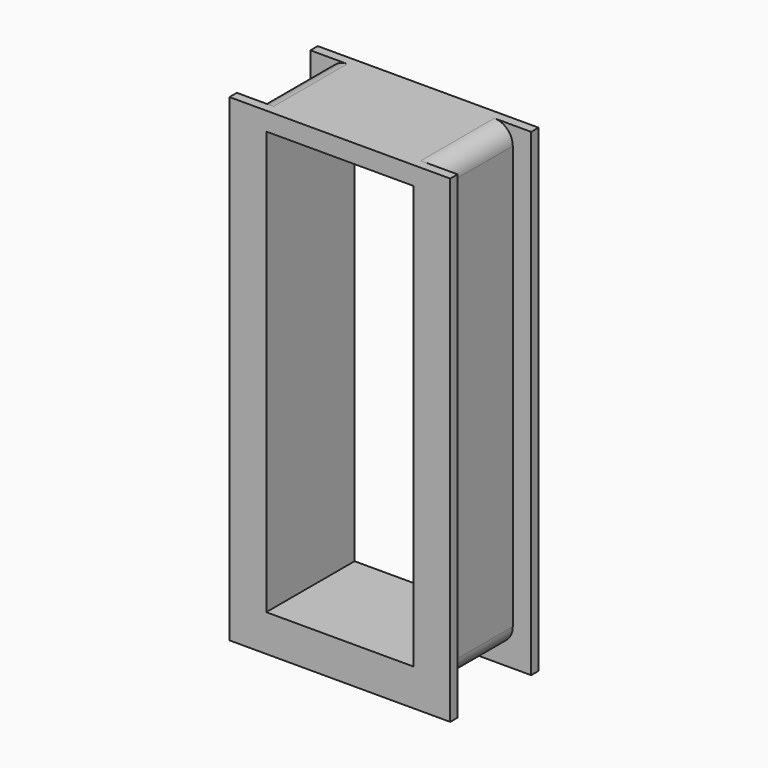
from build123d import *

# Parameters (mm, degrees)
F0_W     = 10
F0_H     = 25
F0_W_2   = 8
F0_H_2   = 23
F1_DEPTH = 5
F2_W     = 12
F2_H     = 27
F2_W_2   = 10
F2_H_2   = 25
F2_W_3   = 8
F2_H_3   = 23
F3_DEPTH = 0.5
F4_W     = 12
F4_H     = 27
F4_W_2   = 10
F4_H_2   = 25
F4_W_3   = 8
F4_H_3   = 23
F5_DEPTH = 0.5
F7_W     = 12
F7_H     = 1
F8_DEPTH = 25
F9_R     = 1


with BuildPart() as f1:
    # F0 (on Front) → F1 (new body)
    with BuildSketch(Plane.XZ):
        Rectangle(F0_W, F0_H)
        Rectangle(F0_W_2, F0_H_2, mode=Mode.SUBTRACT)
    extrude(amount=F1_DEPTH)

    # F2 (on face) → F3 (join)
    with BuildSketch(Plane(origin=(0, 0, 0), x_dir=(-1, 0, 0), z_dir=(0, 1, 0))):
        Rectangle(F2_W, F2_H)
        Rectangle(F2_W_2, F2_H_2, mode=Mode.SUBTRACT)
        Rectangle(F2_W_2, F2_H_2)
        Rectangle(F2_W_3, F2_H_3, mode=Mode.SUBTRACT)
    extrude(amount=F3_DEPTH)

    # F4 (on face) → F5 (join)
    with BuildSketch(Plane.XZ.offset(5)):
        Rectangle(F4_W, F4_H)
        Rectangle(F4_W_2, F4_H_2, mode=Mode.SUBTRACT)
        Rectangle(F4_W_2, F4_H_2)
        Rectangle(F4_W_3, F4_H_3, mode=Mode.SUBTRACT)
    extrude(amount=F5_DEPTH)

    # F7 (on face) → F8 (cut)
    with BuildSketch(Plane(origin=(0, 0.5, 0), x_dir=(-1, 0, 0), z_dir=(0, 1, 0))):
        with Locations((0, 13)):
            Rectangle(F7_W, F7_H)
    extrude(amount=-F8_DEPTH, mode=Mode.SUBTRACT)

    # F9
    f9_edges = [f1.edges().sort_by_distance(p)[0] for p in [
        (-5, -2.5, 12.5),
        (5, -2.5, 12.5),
        (-5, -2.5, -12.5),
        (5, -2.5, -12.5),
    ]]
    fillet(f9_edges, radius=F9_R)


solid = f1.part
